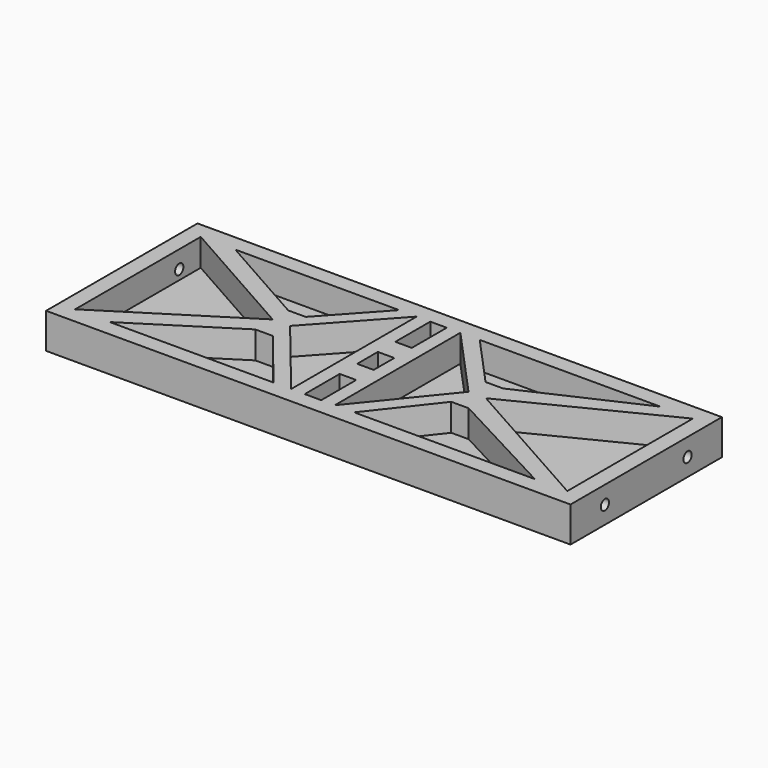
from build123d import *

# Parameters (mm, degrees)
F0_W     = 152.4
F0_H     = 54.999991
F1_DEPTH = 10.2616
F2_W     = 4.790508
F2_H     = 12.7
F2_H_2   = 7.501991
F3_DEPTH = 7.9248
F5_R     = 1.4986
F6_DEPTH = 6.35
F4_R     = 1.4986
F7_DEPTH = 6.35


with BuildPart() as f1:
    # F0 (on Top) → F1 (new body)
    with BuildSketch(Plane.XY):
        with Locations((14.24603, 4.996552)):
            Rectangle(F0_W, F0_H)
    extrude(amount=F1_DEPTH)

    # F2 (on face) → F3 (cut)
    with BuildSketch(Plane.XY.offset(10.2616)):
        Polygon((-57.25497, 27.797548), (-57.25497, -17.804443), (-19.15497, 6.281104), align=None)
        Polygon((0.392403, 27.797548), (-47.199331, 27.797548), (-19.15497, 11.959886), (-14.07497, 11.959886), align=None)
        Polygon((-19.15497, 0), (-47.199331, -17.804443), (0.392403, -17.804443), (-14.07497, 0), align=None)
        Polygon((5.496245, 27.797548), (-14.07497, 6.281104), (5.496245, -17.804443), align=None)
        with Locations((11.848874, 21.447548)):
            Rectangle(F2_W, F2_H)
        with Locations((11.848874, 4.996552)):
            Rectangle(F2_W, F2_H_2)
        with Locations((11.848874, -11.454443)):
            Rectangle(F2_W, F2_H)
        Polygon((18.196245, -17.804443), (37.780095, 6.281104), (18.196245, 27.797548), align=None)
        Polygon((23.825141, -17.804443), (76.312438, -17.804443), (42.860095, 0), (37.780095, 0), align=None)
        Polygon((85.74703, 27.797548), (42.860095, 6.281104), (85.74703, -17.804443), align=None)
        Polygon((42.860095, 12.465476), (76.312438, 27.797548), (23.825141, 27.797548), (37.780095, 12.465476), align=None)
    extrude(amount=-F3_DEPTH, mode=Mode.SUBTRACT)

    # F5 (on face) → F6 (cut)
    with BuildSketch(Plane.YZ.offset(90.44603)):
        with Locations((19.997208, 5.1308)):
            Circle(F5_R)
        with Locations((-10.004103, 5.1308)):
            Circle(F5_R)
    extrude(amount=-F6_DEPTH, mode=Mode.SUBTRACT)

    # F4 (on face) → F7 (cut)
    with BuildSketch(Plane(origin=(-61.95397, 0, 0), x_dir=(0, -1, 0), z_dir=(-1, 0, 0))):
        with Locations((-19.997208, 5.1308)):
            Circle(F4_R)
        with Locations((10.004103, 5.1308)):
            Circle(F4_R)
    extrude(amount=-F7_DEPTH, mode=Mode.SUBTRACT)


solid = f1.part
